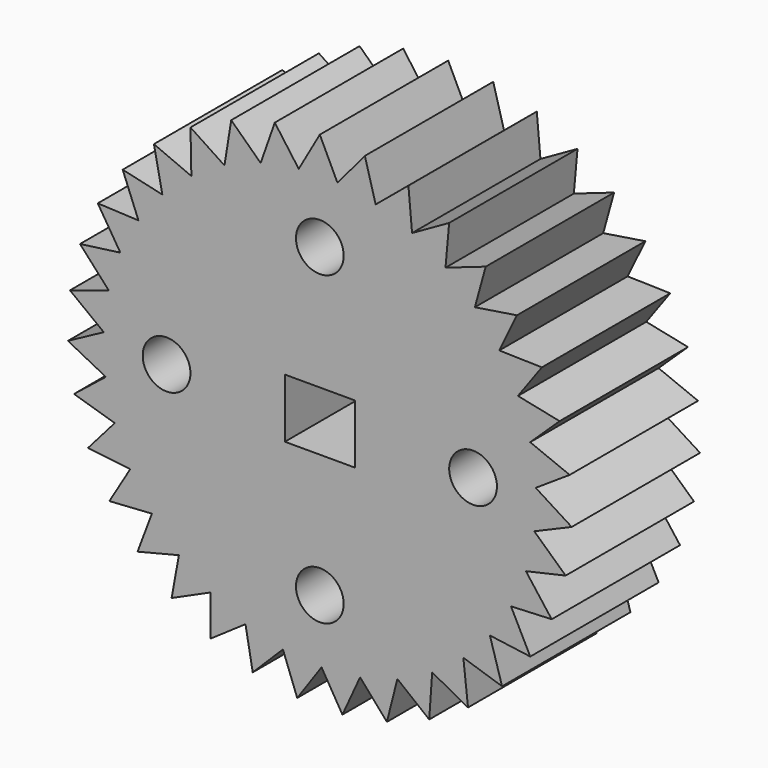
from build123d import *

# Parameters (mm, degrees)
F0_W     = 11.065213941
F0_H     = 9.36287269
F0_R     = 3.7773580785
F1_DEPTH = 25.4


with BuildPart() as f1:
    # F0 (on Front) → F1 (new body)
    with BuildSketch(Plane.XZ):
        with BuildLine():
            ThreePointArc((33.4671847141, 1.342639267), (33.4873749591, 0.6714545692), (33.4941059425, 0))
            ThreePointArc((33.4941059425, 0), (33.4423252841, -1.8617229873), (33.2871434109, -3.7176896637))
            Line((33.2871434109, -3.7176896637), (33.9462126427, -4.3227146645))
            Line((33.9462126427, -4.3227146645), (39.8726638025, -1.7906833961))
            Line((39.8726638025, -1.7906833961), (34.1725335476, 1.8080834581))
            Line((34.1725335476, 1.8080834581), (33.4671847141, 1.342639267))
        make_face()
        with BuildLine():
            ThreePointArc((33.416024444, 2.2857041028), (33.4449287582, 1.8143520181), (33.4671847141, 1.342639267))
            Line((33.4671847141, 1.342639267), (34.1725335476, 1.8080834581))
            Line((34.1725335476, 1.8080834581), (33.416024444, 2.2857041028))
        make_face()
        with BuildLine():
            Line((33.9462126427, -4.3227146645), (33.2871434109, -3.7176896637))
            ThreePointArc((33.2871434109, -3.7176896637), (33.2314200562, -4.1866279911), (33.1690907857, -4.6547340786))
            Line((33.1690907857, -4.6547340786), (33.9462126427, -4.3227146645))
        make_face()
        with BuildLine():
            ThreePointArc((32.689615789, 7.2968590818), (33.1476520467, 4.8050282705), (33.416024444, 2.2857041028))
            Line((33.416024444, 2.2857041028), (34.1725335476, 1.8080834581))
            Line((34.1725335476, 1.8080834581), (39.5516325583, 5.3576326586))
            Line((39.5516325583, 5.3576326586), (33.3005211071, 7.8807682908))
            Line((33.3005211071, 7.8807682908), (32.689615789, 7.2968590818))
        make_face()
        with BuildLine():
            Line((33.9462126427, -4.3227146645), (33.1690907857, -4.6547340786))
            ThreePointArc((33.1690907857, -4.6547340786), (32.7223536892, -7.1486153854), (32.0883861997, -9.6015938255))
            Line((32.0883861997, -9.6015938255), (32.6288325324, -10.3145771812))
            Line((32.6288325324, -10.3145771812), (38.9121548247, -8.8814454132))
            Line((38.9121548247, -8.8814454132), (33.9462126427, -4.3227146645))
        make_face()
        with BuildLine():
            ThreePointArc((32.4708869568, 8.2156334588), (32.5834899314, 7.7570172606), (32.689615789, 7.2968590818))
            Line((32.689615789, 7.2968590818), (33.3005211071, 7.8807682908))
            Line((33.3005211071, 7.8807682908), (32.4708869568, 8.2156334588))
        make_face()
        with BuildLine():
            Line((32.6288325324, -10.3145771812), (32.0883861997, -9.6015938255))
            ThreePointArc((32.0883861997, -9.6015938255), (31.9498261707, -10.0530463319), (31.8049149877, -10.502500441))
            Line((31.8049149877, -10.502500441), (32.6288325324, -10.3145771812))
        make_face()
        with BuildLine():
            ThreePointArc((30.8613757153, 13.0165518419), (31.7569847139, 10.6465513087), (32.4708869568, 8.2156334588))
            Line((32.4708869568, 8.2156334588), (33.3005211071, 7.8807682908))
            Line((33.3005211071, 7.8807682908), (37.9593793005, 12.3337499915))
            Line((37.9593793005, 12.3337499915), (31.3582025184, 13.7001587463))
            Line((31.3582025184, 13.7001587463), (30.8613757153, 13.0165518419))
        make_face()
        with BuildLine():
            Line((32.6288325324, -10.3145771812), (31.8049149877, -10.502500441))
            ThreePointArc((31.8049149877, -10.502500441), (30.9200574381, -12.8765360604), (29.8582818537, -15.1768948615))
            Line((29.8582818537, -15.1768948615), (30.2627348975, -15.9749207003))
            Line((30.2627348975, -15.9749207003), (36.7009771739, -15.686750467))
            Line((36.7009771739, -15.686750467), (32.6288325324, -10.3145771812))
        make_face()
        with BuildLine():
            ThreePointArc((30.4821084456, 13.8815055956), (30.6747909283, 13.4503655858), (30.8613757153, 13.0165518419))
            Line((30.8613757153, 13.0165518419), (31.3582025184, 13.7001587463))
            Line((31.3582025184, 13.7001587463), (30.4821084456, 13.8815055956))
        make_face()
        with BuildLine():
            Line((30.2627348975, -15.9749207003), (29.8582818537, -15.1768948615))
            ThreePointArc((29.8582818537, -15.1768948615), (29.6413385837, -15.5963514919), (29.4185030529, -16.0127077977))
            Line((29.4185030529, -16.0127077977), (30.2627348975, -15.9749207003))
        make_face()
        with BuildLine():
            ThreePointArc((28.0412256332, 18.3178819157), (29.3456217627, 16.1458854279), (30.4821084456, 13.8815055956))
            Line((30.4821084456, 13.8815055956), (31.3582025184, 13.7001587463))
            Line((31.3582025184, 13.7001587463), (35.1470803589, 18.9134504514))
            Line((35.1470803589, 18.9134504514), (28.4080054991, 19.0792148271))
            Line((28.4080054991, 19.0792148271), (28.0412256332, 18.3178819157))
        make_face()
        with BuildLine():
            Line((30.2627348975, -15.9749207003), (29.4185030529, -16.0127077977))
            ThreePointArc((29.4185030529, -16.0127077977), (28.1239650998, -18.1905942716), (26.6685077614, -20.2643980091))
            Line((26.6685077614, -20.2643980091), (26.9239680626, -21.121817124))
            Line((26.9239680626, -21.121817124), (33.310199919, -21.9878704537))
            Line((33.310199919, -21.9878704537), (30.2627348975, -15.9749207003))
        make_face()
        with BuildLine():
            ThreePointArc((27.5136098882, 19.1012147207), (27.7801789056, 18.7114080941), (28.0412256332, 18.3178819157))
            Line((28.0412256332, 18.3178819157), (28.4080054991, 19.0792148271))
            Line((28.4080054991, 19.0792148271), (27.5136098882, 19.1012147207))
        make_face()
        with BuildLine():
            Line((26.9239680626, -21.121817124), (26.6685077614, -20.2643980091))
            ThreePointArc((26.6685077614, -20.2643980091), (26.3801539856, -20.6383770822), (26.0865562244, -21.0082535505))
            Line((26.0865562244, -21.0082535505), (26.9239680626, -21.121817124))
        make_face()
        with BuildLine():
            ThreePointArc((24.3198074869, 23.0304601927), (25.9910663824, 21.1262775045), (27.5136098882, 19.1012147207))
            Line((27.5136098882, 19.1012147207), (28.4080054991, 19.0792148271))
            Line((28.4080054991, 19.0792148271), (31.2051253354, 24.8852570517))
            Line((31.2051253354, 24.8852570517), (24.5447518089, 23.845049245))
            Line((24.5447518089, 23.845049245), (24.3198074869, 23.0304601927))
        make_face()
        with BuildLine():
            Line((26.9239680626, -21.121817124), (26.0865562244, -21.0082535505))
            ThreePointArc((26.0865562244, -21.0082535505), (24.4239453827, -22.9199918157), (22.6215858867, -24.7005867311))
            Line((22.6215858867, -24.7005867311), (22.7198427411, -25.5898409662))
            Line((22.7198427411, -25.5898409662), (28.848805431, -27.5822821923))
            Line((28.848805431, -27.5822821923), (26.9239680626, -21.121817124))
        make_face()
        with BuildLine():
            ThreePointArc((23.6608012708, 23.7069950882), (23.9926890752, 23.3710505505), (24.3198074869, 23.0304601927))
            Line((24.3198074869, 23.0304601927), (24.5447518089, 23.845049245))
            Line((24.5447518089, 23.845049245), (23.6608012708, 23.7069950882))
        make_face()
        with BuildLine():
            Line((22.7198427411, -25.5898409662), (22.6215858867, -24.7005867311))
            ThreePointArc((22.6215858867, -24.7005867311), (22.2710895327, -25.0170682518), (21.9161660147, -25.3285767485))
            Line((21.9161660147, -25.3285767485), (22.7198427411, -25.5898409662))
        make_face()
        with BuildLine():
            ThreePointArc((19.8167307176, 27.0028205296), (21.801136743, 25.4276536394), (23.6608012708, 23.7069950882))
            Line((23.6608012708, 23.7069950882), (24.5447518089, 23.845049245))
            Line((24.5447518089, 23.845049245), (26.260211908, 30.0572310148))
            Line((26.260211908, 30.0572310148), (19.8926096001, 27.8444841603))
            Line((19.8926096001, 27.8444841603), (19.8167307176, 27.0028205296))
        make_face()
        with BuildLine():
            Line((22.7198427411, -25.5898409662), (21.9161660147, -25.3285767485))
            ThreePointArc((21.9161660147, -25.3285767485), (19.938919965, -26.9127219642), (17.8475876286, -28.3428782718))
            Line((17.8475876286, -28.3428782718), (17.78548298, -29.2353862643))
            Line((17.78548298, -29.2353862643), (23.4601865995, -32.2901766865))
            Line((23.4601865995, -32.2901766865), (22.7198427411, -25.5898409662))
        make_face()
        with BuildLine():
            ThreePointArc((19.0475150323, 27.5508131274), (19.4340544766, 27.2795282124), (19.8167307176, 27.0028205296))
            Line((19.8167307176, 27.0028205296), (19.8926096001, 27.8444841603))
            Line((19.8926096001, 27.8444841603), (19.0475150323, 27.5508131274))
        make_face()
        with BuildLine():
            Line((17.78548298, -29.2353862643), (17.8475876286, -28.3428782718))
            ThreePointArc((17.8475876286, -28.3428782718), (17.4462139375, -28.5916902637), (17.0413721966, -28.8348186494))
            Line((17.0413721966, -28.8348186494), (17.78548298, -29.2353862643))
        make_face()
        with BuildLine():
            ThreePointArc((14.6767279178, 30.1072879967), (16.9105006306, 28.9117640643), (19.0475150323, 27.5508131274))
            Line((19.0475150323, 27.5508131274), (19.8926096001, 27.8444841603))
            Line((19.8926096001, 27.8444841603), (20.4712736629, 34.2631408418))
            Line((20.4712736629, 34.2631408418), (14.6011025511, 30.9489744442))
            Line((14.6011025511, 30.9489744442), (14.6767279178, 30.1072879967))
        make_face()
        with BuildLine():
            Line((17.78548298, -29.2353862643), (17.0413721966, -28.8348186494))
            ThreePointArc((17.0413721966, -28.8348186494), (14.8130412537, -30.0404550849), (12.499953219, -31.0742063843))
            Line((12.499953219, -31.0742063843), (12.2794831619, -31.941282193))
            Line((12.2794831619, -31.941282193), (17.3175380677, -35.9602383335))
            Line((17.3175380677, -35.9602383335), (17.78548298, -29.2353862643))
        make_face()
        with BuildLine():
            ThreePointArc((13.8220259884, 30.5091253638), (14.2507933768, 30.3112193919), (14.6767279178, 30.1072879967))
            Line((14.6767279178, 30.1072879967), (14.6011025511, 30.9489744442))
            Line((14.6011025511, 30.9489744442), (13.8220259884, 30.5091253638))
        make_face()
        with BuildLine():
            Line((12.2794831619, -31.941282193), (12.499953219, -31.0742063843))
            ThreePointArc((12.499953219, -31.0742063843), (12.0606026716, -31.2473518252), (11.6188546545, -31.4142857536))
            Line((11.6188546545, -31.4142857536), (12.2794831619, -31.941282193))
        make_face()
        with BuildLine():
            ThreePointArc((9.0650030066, 32.2440824552), (11.476347114, 31.4666266036), (13.8220259884, 30.5091253638))
            Line((13.8220259884, 30.5091253638), (14.6011025511, 30.9489744442))
            Line((14.6011025511, 30.9489744442), (14.0243718385, 37.3678051304))
            Line((14.0243718385, 37.3678051304), (8.8403040522, 33.0587392246))
            Line((8.8403040522, 33.0587392246), (9.0650030066, 32.2440824552))
        make_face()
        with BuildLine():
            Line((12.2794831619, -31.941282193), (11.6188546545, -31.4142857536))
            ThreePointArc((11.6188546545, -31.4142857536), (9.2110592084, -32.2026632618), (6.7505600279, -32.8067839356))
            Line((6.7505600279, -32.8067839356), (6.3788106515, -33.6205590306))
            Line((6.3788106515, -33.6205590306), (10.6182896134, -38.4745083323))
            Line((10.6182896134, -38.4745083323), (12.2794831619, -31.941282193))
        make_face()
        with BuildLine():
            ThreePointArc((8.1522856563, 32.4868492081), (8.6095000523, 32.3686830399), (9.0650030066, 32.2440824552))
            Line((9.0650030066, 32.2440824552), (8.8403040522, 33.0587392246))
            Line((8.8403040522, 33.0587392246), (8.1522856563, 32.4868492081))
        make_face()
        with BuildLine():
            Line((6.3788106515, -33.6205590306), (6.7505600279, -32.8067839356))
            ThreePointArc((6.7505600279, -32.8067839356), (6.2873537124, -32.8986977886), (5.8228975637, -32.9840718659))
            Line((5.8228975637, -32.9840718659), (6.3788106515, -33.6205590306))
        make_face()
        with BuildLine():
            ThreePointArc((3.1619214401, 33.3445255731), (5.6733343584, 33.0101258729), (8.1522856563, 32.4868492081))
            Line((8.1522856563, 32.4868492081), (8.8403040522, 33.0587392246))
            Line((8.8403040522, 33.0587392246), (7.1267151639, 39.2714374158))
            Line((7.1267151639, 39.2714374158), (2.7953709073, 34.1059689255))
            Line((2.7953709073, 34.1059689255), (3.1619214401, 33.3445255731))
        make_face()
        with BuildLine():
            Line((6.3788106515, -33.6205590306), (5.8228975637, -32.9840718659))
            ThreePointArc((5.8228975637, -32.9840718659), (3.3130261412, -33.329851345), (0.7841982832, -33.4849244578))
            Line((0.7841982832, -33.4849244578), (0.2731179182, -34.2192434379))
            Line((0.2731179182, -34.2192434379), (3.5777605942, -39.7521759764))
            Line((3.5777605942, -39.7521759764), (6.3788106515, -33.6205590306))
        make_face()
        with BuildLine():
            ThreePointArc((2.2205241556, 33.4204189885), (2.6914903121, 33.3857905821), (3.1619214401, 33.3445255731))
            Line((3.1619214401, 33.3445255731), (2.7953709073, 34.1059689255))
            Line((2.7953709073, 34.1059689255), (2.2205241556, 33.4204189885))
        make_face()
        with BuildLine():
            Line((0.2731179182, -34.2192434379), (0.7841982832, -33.4849244578))
            ThreePointArc((0.7841982832, -33.4849244578), (0.3120240315, -33.4926525359), (-0.1602122459, -33.493722769))
            Line((-0.1602122459, -33.493722769), (0.2731179182, -34.2192434379))
        make_face()
        with BuildLine():
            ThreePointArc((-2.8427868831, 33.3732482031), (-0.3120240315, 33.4926525359), (2.2205241556, 33.4204189885))
            Line((2.2205241556, 33.4204189885), (2.7953709073, 34.1059689255))
            Line((2.7953709073, 34.1059689255), (0, 39.91285339))
            Line((0, 39.91285339), (-3.3394077587, 34.0570047226))
            Line((-3.3394077587, 34.0570047226), (-2.8427868831, 33.3732482031))
        make_face()
        with BuildLine():
            Line((0.2731179182, -34.2192434379), (-0.1602122459, -33.493722769))
            ThreePointArc((-0.1602122459, -33.493722769), (-2.6914903121, -33.3857905821), (-5.2073682396, -33.0868319563))
            Line((-5.2073682396, -33.0868319563), (-5.8413530498, -33.7180932053))
            Line((-5.8413530498, -33.7180932053), (-3.5777605942, -39.7521759764))
            Line((-3.5777605942, -39.7521759764), (0.2731179182, -34.2192434379))
        make_face()
        with BuildLine():
            ThreePointArc((-3.7826068186, 33.2798290042), (-3.3130261412, 33.329851345), (-2.8427868831, 33.3732482031))
            Line((-2.8427868831, 33.3732482031), (-3.3394077587, 34.0570047226))
            Line((-3.3394077587, 34.0570047226), (-3.7826068186, 33.2798290042))
        make_face()
        with BuildLine():
            Line((-5.8413530498, -33.7180932053), (-5.2073682396, -33.0868319563))
            ThreePointArc((-5.2073682396, -33.0868319563), (-5.6733343584, -33.0101258729), (-6.1381727021, -32.9268578636))
            Line((-6.1381727021, -32.9268578636), (-5.8413530498, -33.7180932053))
        make_face()
        with BuildLine():
            ThreePointArc((-8.7561256969, 32.3293271763), (-6.2873537124, 32.8986977886), (-3.7826068186, 33.2798290042))
            Line((-3.7826068186, 33.2798290042), (-3.3394077587, 34.0570047226))
            Line((-3.3394077587, 34.0570047226), (-7.1267151639, 39.2714374158))
            Line((-7.1267151639, 39.2714374158), (-9.3668551116, 32.9134203658))
            Line((-9.3668551116, 32.9134203658), (-8.7561256969, 32.3293271763))
        make_face()
        with BuildLine():
            Line((-5.8413530498, -33.7180932053), (-6.1381727021, -32.9268578636))
            ThreePointArc((-6.1381727021, -32.9268578636), (-8.6095000523, -32.3686830399), (-11.0315656625, -31.6253014519))
            Line((-11.0315656625, -31.6253014519), (-11.7680781244, -32.1332157139))
            Line((-11.7680781244, -32.1332157139), (-10.6182896134, -38.4745083323))
            Line((-10.6182896134, -38.4745083323), (-5.8413530498, -33.7180932053))
        make_face()
        with BuildLine():
            ThreePointArc((-9.6641616972, 32.0695979329), (-9.2110592084, 32.2026632618), (-8.7561256969, 32.3293271763))
            Line((-8.7561256969, 32.3293271763), (-9.3668551116, 32.9134203658))
            Line((-9.3668551116, 32.9134203658), (-9.6641616972, 32.0695979329))
        make_face()
        with BuildLine():
            Line((-11.7680781244, -32.1332157139), (-11.0315656625, -31.6253014519))
            ThreePointArc((-11.0315656625, -31.6253014519), (-11.476347114, -31.4666266036), (-11.9188472371, -31.3016966542))
            Line((-11.9188472371, -31.3016966542), (-11.7680781244, -32.1332157139))
        make_face()
        with BuildLine():
            ThreePointArc((-14.3880354262, 30.2463149733), (-12.0606026716, 31.2473518252), (-9.6641616972, 32.0695979329))
            Line((-9.6641616972, 32.0695979329), (-9.3668551116, 32.9134203658))
            Line((-9.3668551116, 32.9134203658), (-14.0243718385, 37.3678051304))
            Line((-14.0243718385, 37.3678051304), (-15.0932440341, 30.7119715971))
            Line((-15.0932440341, 30.7119715971), (-14.3880354262, 30.2463149733))
        make_face()
        with BuildLine():
            Line((-11.7680781244, -32.1332157139), (-11.9188472371, -31.3016966542))
            ThreePointArc((-11.9188472371, -31.3016966542), (-14.2507933768, -30.3112193919), (-16.5011994882, -29.1473077374))
            Line((-16.5011994882, -29.1473077374), (-17.3165674853, -29.5155502301))
            Line((-17.3165674853, -29.5155502301), (-17.3175380677, -35.9602383335))
            Line((-17.3175380677, -35.9602383335), (-11.7680781244, -32.1332157139))
        make_face()
        with BuildLine():
            ThreePointArc((-15.2351024672, 29.8286235972), (-14.8130412537, 30.0404550849), (-14.3880354262, 30.2463149733))
            Line((-14.3880354262, 30.2463149733), (-15.0932440341, 30.7119715971))
            Line((-15.0932440341, 30.7119715971), (-15.2351024672, 29.8286235972))
        make_face()
        with BuildLine():
            Line((-17.3165674853, -29.5155502301), (-16.5011994882, -29.1473077374))
            ThreePointArc((-16.5011994882, -29.1473077374), (-16.9105006306, -28.9117640643), (-17.3164402151, -28.6704731591))
            Line((-17.3164402151, -28.6704731591), (-17.3165674853, -29.5155502301))
        make_face()
        with BuildLine():
            ThreePointArc((-19.5575018583, 27.1911613204), (-17.4462139375, 28.5916902637), (-15.2351024672, 29.8286235972))
            Line((-15.2351024672, 29.8286235972), (-15.0932440341, 30.7119715971))
            Line((-15.0932440341, 30.7119715971), (-20.4712736629, 34.2631408418))
            Line((-20.4712736629, 34.2631408418), (-20.3345236746, 27.5234147915))
            Line((-20.3345236746, 27.5234147915), (-19.5575018583, 27.1911613204))
        make_face()
        with BuildLine():
            Line((-17.3165674853, -29.5155502301), (-17.3164402151, -28.6704731591))
            ThreePointArc((-17.3164402151, -28.6704731591), (-19.4340544766, -27.2795282124), (-21.4404711852, -25.7324955698))
            Line((-21.4404711852, -25.7324955698), (-22.3084881191, -25.9492306764))
            Line((-22.3084881191, -25.9492306764), (-23.4601865995, -32.2901766865))
            Line((-23.4601865995, -32.2901766865), (-17.3165674853, -29.5155502301))
        make_face()
        with BuildLine():
            ThreePointArc((-20.3163745085, 26.6289327559), (-19.938919965, 26.9127219642), (-19.5575018583, 27.1911613204))
            Line((-19.5575018583, 27.1911613204), (-20.3345236746, 27.5234147915))
            Line((-20.3345236746, 27.5234147915), (-20.3163745085, 26.6289327559))
        make_face()
        with BuildLine():
            Line((-22.3084881191, -25.9492306764), (-21.4404711852, -25.7324955698))
            ThreePointArc((-21.4404711852, -25.7324955698), (-21.801136743, -25.4276536394), (-22.1574685565, -25.1177570666))
            Line((-22.1574685565, -25.1177570666), (-22.3084881191, -25.9492306764))
        make_face()
        with BuildLine():
            ThreePointArc((-24.0983740888, 23.2620613696), (-22.2710895327, 25.0170682518), (-20.3163745085, 26.6289327559))
            Line((-20.3163745085, 26.6289327559), (-20.3345236746, 27.5234147915))
            Line((-20.3345236746, 27.5234147915), (-26.260211908, 30.0572310148))
            Line((-26.260211908, 30.0572310148), (-24.922234993, 23.450232788))
            Line((-24.922234993, 23.450232788), (-24.0983740888, 23.2620613696))
        make_face()
        with BuildLine():
            Line((-22.3084881191, -25.9492306764), (-22.1574685565, -25.1177570666))
            ThreePointArc((-22.1574685565, -25.1177570666), (-23.9926890752, -23.3710505505), (-25.6906284969, -21.4906198217))
            Line((-25.6906284969, -21.4906198217), (-26.5833955893, -21.5488814977))
            Line((-26.5833955893, -21.5488814977), (-28.848805431, -27.5822821923))
            Line((-28.848805431, -27.5822821923), (-22.3084881191, -25.9492306764))
        make_face()
        with BuildLine():
            ThreePointArc((-24.7446615567, 22.5733661056), (-24.4239453827, 22.9199918157), (-24.0983740888, 23.2620613696))
            Line((-24.0983740888, 23.2620613696), (-24.922234993, 23.450232788))
            Line((-24.922234993, 23.450232788), (-24.7446615567, 22.5733661056))
        make_face()
        with BuildLine():
            Line((-26.5833955893, -21.5488814977), (-25.6906284969, -21.4906198217))
            ThreePointArc((-25.6906284969, -21.4906198217), (-25.9910663824, -21.1262775045), (-26.2863376273, -20.757735595))
            Line((-26.2863376273, -20.757735595), (-26.5833955893, -21.5488814977))
        make_face()
        with BuildLine():
            ThreePointArc((-27.8647047479, 18.5852996264), (-26.3801539856, 20.6383770822), (-24.7446615567, 22.5733661056))
            Line((-24.7446615567, 22.5733661056), (-24.922234993, 23.450232788))
            Line((-24.922234993, 23.450232788), (-31.2051253354, 24.8852570517))
            Line((-31.2051253354, 24.8852570517), (-28.7089251725, 18.6233410079))
            Line((-28.7089251725, 18.6233410079), (-27.8647047479, 18.5852996264))
        make_face()
        with BuildLine():
            Line((-26.5833955893, -21.5488814977), (-26.2863376273, -20.757735595))
            ThreePointArc((-26.2863376273, -20.757735595), (-27.7801789056, -18.7114080941), (-29.1150678705, -16.5580178701))
            Line((-29.1150678705, -16.5580178701), (-30.0038908523, -16.4559335371))
            Line((-30.0038908523, -16.4559335371), (-33.310199919, -21.9878704537))
            Line((-33.310199919, -21.9878704537), (-26.5833955893, -21.5488814977))
        make_face()
        with BuildLine():
            ThreePointArc((-28.3776348224, 17.7922728951), (-28.1239650998, 18.1905942716), (-27.8647047479, 18.5852996264))
            Line((-27.8647047479, 18.5852996264), (-28.7089251725, 18.6233410079))
            Line((-28.7089251725, 18.6233410079), (-28.3776348224, 17.7922728951))
        make_face()
        with BuildLine():
            Line((-30.0038908523, -16.4559335371), (-29.1150678705, -16.5580178701))
            ThreePointArc((-29.1150678705, -16.5580178701), (-29.3456217627, -16.1458854279), (-29.5703421783, -15.7305434219))
            Line((-29.5703421783, -15.7305434219), (-30.0038908523, -16.4559335371))
        make_face()
        with BuildLine():
            ThreePointArc((-30.7354408692, 13.3111910611), (-29.6413385837, 15.5963514919), (-28.3776348224, 17.7922728951))
            Line((-28.3776348224, 17.7922728951), (-28.7089251725, 18.6233410079))
            Line((-28.7089251725, 18.6233410079), (-35.1470803589, 18.9134504514))
            Line((-35.1470803589, 18.9134504514), (-31.5728868752, 13.1978797244))
            Line((-31.5728868752, 13.1978797244), (-30.7354408692, 13.3111910611))
        make_face()
        with BuildLine():
            Line((-30.0038908523, -16.4559335371), (-29.5703421783, -15.7305434219))
            ThreePointArc((-29.5703421783, -15.7305434219), (-30.6747909283, -13.4503655858), (-31.6037250067, -11.0932276001))
            Line((-31.6037250067, -11.0932276001), (-32.4600363761, -10.8340783327))
            Line((-32.4600363761, -10.8340783327), (-36.7009771739, -15.686750467))
            Line((-36.7009771739, -15.686750467), (-30.0038908523, -16.4559335371))
        make_face()
        with BuildLine():
            ThreePointArc((-31.0985275558, 12.4393213943), (-30.9200574381, 12.8765360604), (-30.7354408692, 13.3111910611))
            Line((-30.7354408692, 13.3111910611), (-31.5728868752, 13.1978797244))
            Line((-31.5728868752, 13.1978797244), (-31.0985275558, 12.4393213943))
        make_face()
        with BuildLine():
            Line((-32.4600363761, -10.8340783327), (-31.6037250067, -11.0932276001))
            ThreePointArc((-31.6037250067, -11.0932276001), (-31.7569847139, -10.6465513087), (-31.9039316011, -10.19775864))
            Line((-31.9039316011, -10.19775864), (-32.4600363761, -10.8340783327))
        make_face()
        with BuildLine():
            ThreePointArc((-32.6183146318, 7.6092498626), (-31.9498261707, 10.0530463319), (-31.0985275558, 12.4393213943))
            Line((-31.0985275558, 12.4393213943), (-31.5728868752, 13.1978797244))
            Line((-31.5728868752, 13.1978797244), (-37.9593793005, 12.3337499915))
            Line((-37.9593793005, 12.3337499915), (-33.4220700155, 7.3482277273))
            Line((-33.4220700155, 7.3482277273), (-32.6183146318, 7.6092498626))
        make_face()
        with BuildLine():
            Line((-32.4600363761, -10.8340783327), (-31.9039316011, -10.19775864))
            ThreePointArc((-31.9039316011, -10.19775864), (-32.5834899314, -7.7570172606), (-33.0766124176, -5.2718918676))
            Line((-33.0766124176, -5.2718918676), (-33.8728896225, -4.8640069364))
            Line((-33.8728896225, -4.8640069364), (-38.9121548247, -8.8814454132))
            Line((-38.9121548247, -8.8814454132), (-32.4600363761, -10.8340783327))
        make_face()
        with BuildLine():
            ThreePointArc((-32.8198880256, 6.6865598688), (-32.7223536892, 7.1486153854), (-32.6183146318, 7.6092498626))
            Line((-32.6183146318, 7.6092498626), (-33.4220700155, 7.3482277273))
            Line((-33.4220700155, 7.3482277273), (-32.8198880256, 6.6865598688))
        make_face()
        with BuildLine():
            Line((-33.8728896225, -4.8640069364), (-33.0766124176, -5.2718918676))
            ThreePointArc((-33.0766124176, -5.2718918676), (-33.1476520467, -4.8050282705), (-33.2121024116, -4.3372095048))
            Line((-33.2121024116, -4.3372095048), (-33.8728896225, -4.8640069364))
        make_face()
        with BuildLine():
            ThreePointArc((-33.4528089237, 1.6627411127), (-33.2314200562, 4.1866279911), (-32.8198880256, 6.6865598688))
            Line((-32.8198880256, 6.6865598688), (-33.4220700155, 7.3482277273))
            Line((-33.4220700155, 7.3482277273), (-39.5516325583, 5.3576326586))
            Line((-39.5516325583, 5.3576326586), (-34.1970403258, 1.262397645))
            Line((-34.1970403258, 1.262397645), (-33.4528089237, 1.6627411127))
        make_face()
        with BuildLine():
            Line((-33.8728896225, -4.8640069364), (-33.2121024116, -4.3372095048))
            ThreePointArc((-33.2121024116, -4.3372095048), (-33.4449287582, -1.8143520181), (-33.4863902899, 0.7188868074))
            Line((-33.4863902899, 0.7188868074), (-34.1970403258, 1.262397645))
            Line((-34.1970403258, 1.262397645), (-39.8726638025, -1.7906833961))
            Line((-39.8726638025, -1.7906833961), (-33.8728896225, -4.8640069364))
        make_face()
        with BuildLine():
            ThreePointArc((-33.4863902899, 0.7188868074), (-33.4729265687, 1.1909323299), (-33.4528089237, 1.6627411127))
            Line((-33.4528089237, 1.6627411127), (-34.1970403258, 1.262397645))
            Line((-34.1970403258, 1.262397645), (-33.4863902899, 0.7188868074))
        make_face()
        with BuildLine():
            ThreePointArc((33.2871434109, -3.7176896637), (33.4423252841, -1.8617229873), (33.4941059425, 0))
            ThreePointArc((33.4941059425, 0), (33.4873749591, 0.6714545692), (33.4671847141, 1.342639267))
            ThreePointArc((33.4671847141, 1.342639267), (33.4449287582, 1.8143520181), (33.416024444, 2.2857041028))
            ThreePointArc((33.416024444, 2.2857041028), (33.1476520467, 4.8050282705), (32.689615789, 7.2968590818))
            ThreePointArc((32.689615789, 7.2968590818), (32.5834899314, 7.7570172606), (32.4708869568, 8.2156334588))
            ThreePointArc((32.4708869568, 8.2156334588), (31.7569847139, 10.6465513087), (30.8613757153, 13.0165518419))
            ThreePointArc((30.8613757153, 13.0165518419), (30.6747909283, 13.4503655858), (30.4821084456, 13.8815055956))
            ThreePointArc((30.4821084456, 13.8815055956), (29.3456217627, 16.1458854279), (28.0412256332, 18.3178819157))
            ThreePointArc((28.0412256332, 18.3178819157), (27.7801789056, 18.7114080941), (27.5136098882, 19.1012147207))
            ThreePointArc((27.5136098882, 19.1012147207), (25.9910663824, 21.1262775045), (24.3198074869, 23.0304601927))
            ThreePointArc((24.3198074869, 23.0304601927), (23.9926890752, 23.3710505505), (23.6608012708, 23.7069950882))
            ThreePointArc((23.6608012708, 23.7069950882), (21.801136743, 25.4276536394), (19.8167307176, 27.0028205296))
            ThreePointArc((19.8167307176, 27.0028205296), (19.4340544766, 27.2795282124), (19.0475150323, 27.5508131274))
            ThreePointArc((19.0475150323, 27.5508131274), (16.9105006306, 28.9117640643), (14.6767279178, 30.1072879967))
            ThreePointArc((14.6767279178, 30.1072879967), (14.2507933768, 30.3112193919), (13.8220259884, 30.5091253638))
            ThreePointArc((13.8220259884, 30.5091253638), (11.476347114, 31.4666266036), (9.0650030066, 32.2440824552))
            ThreePointArc((9.0650030066, 32.2440824552), (8.6095000523, 32.3686830399), (8.1522856563, 32.4868492081))
            ThreePointArc((8.1522856563, 32.4868492081), (5.6733343584, 33.0101258729), (3.1619214401, 33.3445255731))
            ThreePointArc((3.1619214401, 33.3445255731), (2.6914903121, 33.3857905821), (2.2205241556, 33.4204189885))
            ThreePointArc((2.2205241556, 33.4204189885), (-0.3120240315, 33.4926525359), (-2.8427868831, 33.3732482031))
            ThreePointArc((-2.8427868831, 33.3732482031), (-3.3130261412, 33.329851345), (-3.7826068186, 33.2798290042))
            ThreePointArc((-3.7826068186, 33.2798290042), (-6.2873537124, 32.8986977886), (-8.7561256969, 32.3293271763))
            ThreePointArc((-8.7561256969, 32.3293271763), (-9.2110592084, 32.2026632618), (-9.6641616972, 32.0695979329))
            ThreePointArc((-9.6641616972, 32.0695979329), (-12.0606026716, 31.2473518252), (-14.3880354262, 30.2463149733))
            ThreePointArc((-14.3880354262, 30.2463149733), (-14.8130412537, 30.0404550849), (-15.2351024672, 29.8286235972))
            ThreePointArc((-15.2351024672, 29.8286235972), (-17.4462139375, 28.5916902637), (-19.5575018583, 27.1911613204))
            ThreePointArc((-19.5575018583, 27.1911613204), (-19.938919965, 26.9127219642), (-20.3163745085, 26.6289327559))
            ThreePointArc((-20.3163745085, 26.6289327559), (-22.2710895327, 25.0170682518), (-24.0983740888, 23.2620613696))
            ThreePointArc((-24.0983740888, 23.2620613696), (-24.4239453827, 22.9199918157), (-24.7446615567, 22.5733661056))
            ThreePointArc((-24.7446615567, 22.5733661056), (-26.3801539856, 20.6383770822), (-27.8647047479, 18.5852996264))
            ThreePointArc((-27.8647047479, 18.5852996264), (-28.1239650998, 18.1905942716), (-28.3776348224, 17.7922728951))
            ThreePointArc((-28.3776348224, 17.7922728951), (-29.6413385837, 15.5963514919), (-30.7354408692, 13.3111910611))
            ThreePointArc((-30.7354408692, 13.3111910611), (-30.9200574381, 12.8765360604), (-31.0985275558, 12.4393213943))
            ThreePointArc((-31.0985275558, 12.4393213943), (-31.9498261707, 10.0530463319), (-32.6183146318, 7.6092498626))
            ThreePointArc((-32.6183146318, 7.6092498626), (-32.7223536892, 7.1486153854), (-32.8198880256, 6.6865598688))
            ThreePointArc((-32.8198880256, 6.6865598688), (-33.2314200562, 4.1866279911), (-33.4528089237, 1.6627411127))
            ThreePointArc((-33.4528089237, 1.6627411127), (-33.4729265687, 1.1909323299), (-33.4863902899, 0.7188868074))
            ThreePointArc((-33.4863902899, 0.7188868074), (-33.4449287582, -1.8143520181), (-33.2121024116, -4.3372095048))
            ThreePointArc((-33.2121024116, -4.3372095048), (-33.1476520467, -4.8050282705), (-33.0766124176, -5.2718918676))
            ThreePointArc((-33.0766124176, -5.2718918676), (-32.5834899314, -7.7570172606), (-31.9039316011, -10.19775864))
            ThreePointArc((-31.9039316011, -10.19775864), (-31.7569847139, -10.6465513087), (-31.6037250067, -11.0932276001))
            ThreePointArc((-31.6037250067, -11.0932276001), (-30.6747909283, -13.4503655858), (-29.5703421783, -15.7305434219))
            ThreePointArc((-29.5703421783, -15.7305434219), (-29.3456217627, -16.1458854279), (-29.1150678705, -16.5580178701))
            ThreePointArc((-29.1150678705, -16.5580178701), (-27.7801789056, -18.7114080941), (-26.2863376273, -20.757735595))
            ThreePointArc((-26.2863376273, -20.757735595), (-25.9910663824, -21.1262775045), (-25.6906284969, -21.4906198217))
            ThreePointArc((-25.6906284969, -21.4906198217), (-23.9926890752, -23.3710505505), (-22.1574685565, -25.1177570666))
            ThreePointArc((-22.1574685565, -25.1177570666), (-21.801136743, -25.4276536394), (-21.4404711852, -25.7324955698))
            ThreePointArc((-21.4404711852, -25.7324955698), (-19.4340544766, -27.2795282124), (-17.3164402151, -28.6704731591))
            ThreePointArc((-17.3164402151, -28.6704731591), (-16.9105006306, -28.9117640643), (-16.5011994882, -29.1473077374))
            ThreePointArc((-16.5011994882, -29.1473077374), (-14.2507933768, -30.3112193919), (-11.9188472371, -31.3016966542))
            ThreePointArc((-11.9188472371, -31.3016966542), (-11.476347114, -31.4666266036), (-11.0315656625, -31.6253014519))
            ThreePointArc((-11.0315656625, -31.6253014519), (-8.6095000523, -32.3686830399), (-6.1381727021, -32.9268578636))
            ThreePointArc((-6.1381727021, -32.9268578636), (-5.6733343584, -33.0101258729), (-5.2073682396, -33.0868319563))
            ThreePointArc((-5.2073682396, -33.0868319563), (-2.6914903121, -33.3857905821), (-0.1602122459, -33.493722769))
            ThreePointArc((-0.1602122459, -33.493722769), (0.3120240315, -33.4926525359), (0.7841982832, -33.4849244578))
            ThreePointArc((0.7841982832, -33.4849244578), (3.3130261412, -33.329851345), (5.8228975637, -32.9840718659))
            ThreePointArc((5.8228975637, -32.9840718659), (6.2873537124, -32.8986977886), (6.7505600279, -32.8067839356))
            ThreePointArc((6.7505600279, -32.8067839356), (9.2110592084, -32.2026632618), (11.6188546545, -31.4142857536))
            ThreePointArc((11.6188546545, -31.4142857536), (12.0606026716, -31.2473518252), (12.499953219, -31.0742063843))
            ThreePointArc((12.499953219, -31.0742063843), (14.8130412537, -30.0404550849), (17.0413721966, -28.8348186494))
            ThreePointArc((17.0413721966, -28.8348186494), (17.4462139375, -28.5916902637), (17.8475876286, -28.3428782718))
            ThreePointArc((17.8475876286, -28.3428782718), (19.938919965, -26.9127219642), (21.9161660147, -25.3285767485))
            ThreePointArc((21.9161660147, -25.3285767485), (22.2710895327, -25.0170682518), (22.6215858867, -24.7005867311))
            ThreePointArc((22.6215858867, -24.7005867311), (24.4239453827, -22.9199918157), (26.0865562244, -21.0082535505))
            ThreePointArc((26.0865562244, -21.0082535505), (26.3801539856, -20.6383770822), (26.6685077614, -20.2643980091))
            ThreePointArc((26.6685077614, -20.2643980091), (28.1239650998, -18.1905942716), (29.4185030529, -16.0127077977))
            ThreePointArc((29.4185030529, -16.0127077977), (29.6413385837, -15.5963514919), (29.8582818537, -15.1768948615))
            ThreePointArc((29.8582818537, -15.1768948615), (30.9200574381, -12.8765360604), (31.8049149877, -10.502500441))
            ThreePointArc((31.8049149877, -10.502500441), (31.9498261707, -10.0530463319), (32.0883861997, -9.6015938255))
            ThreePointArc((32.0883861997, -9.6015938255), (32.7223536892, -7.1486153854), (33.1690907857, -4.6547340786))
            ThreePointArc((33.1690907857, -4.6547340786), (33.2314200562, -4.1866279911), (33.2871434109, -3.7176896637))
        make_face()
        with BuildLine():
            Line((2.9790969566, 8.6535634473), (9.2210108414, 8.6535634473))
            Line((9.2210108414, 8.6535634473), (9.2210108414, 2.9790960252))
            Line((9.2210108414, 2.9790960252), (16.8815422803, 2.9790960252))
            ThreePointArc((16.8815422803, 2.9790960252), (24.9210830941, 6.9998026802), (30.5605027825, -4.657e-07))
            ThreePointArc((30.5605027825, -4.657e-07), (24.9210830941, -6.9998036115), (16.8815422803, -2.9790969566))
            Line((16.8815422803, -2.9790969566), (9.2210108414, -2.9790969566))
            Line((9.2210108414, -2.9790969566), (9.2210108414, -8.6535634473))
            Line((9.2210108414, -8.6535634473), (2.9790960252, -8.6535634473))
            Line((2.9790960252, -8.6535634473), (2.9790960252, -16.8815422803))
            ThreePointArc((2.9790960252, -16.8815422803), (6.0275669555, -19.5249695232), (7.163883672, -23.3966186448))
            ThreePointArc((7.163883672, -23.3966186448), (-3.8716495873, -29.424186066), (-2.9790969566, -16.8815422803))
            Line((-2.9790969566, -16.8815422803), (-2.9790969566, -8.6535634473))
            Line((-2.9790969566, -8.6535634473), (-9.2210108414, -8.6535634473))
            Line((-9.2210108414, -8.6535634473), (-9.2210108414, -2.9790960252))
            Line((-9.2210108414, -2.9790960252), (-16.8815422803, -2.9790960252))
            ThreePointArc((-16.8815422803, -2.9790960252), (-30.5605027825, 4.657e-07), (-16.8815422803, 2.9790969566))
            Line((-16.8815422803, 2.9790969566), (-9.2210108414, 2.9790969566))
            Line((-9.2210108414, 2.9790969566), (-9.2210108414, 8.6535634473))
            Line((-9.2210108414, 8.6535634473), (-2.9790960252, 8.6535634473))
            Line((-2.9790960252, 8.6535634473), (-2.9790960252, 16.8815422803))
            ThreePointArc((-2.9790960252, 16.8815422803), (-3.871648656, 29.424186066), (7.1638846033, 23.3966186448))
            ThreePointArc((7.1638846033, 23.3966186448), (6.0275678868, 19.5249695232), (2.9790969566, 16.8815422803))
            Line((2.9790969566, 16.8815422803), (2.9790969566, 8.6535634473))
        make_face(mode=Mode.SUBTRACT)
        Polygon((9.2210108414, 2.9790960252), (9.2210108414, 8.6535634473), (2.9790969566, 8.6535634473), (-2.9790960252, 8.6535634473), (-9.2210108414, 8.6535634473), (-9.2210108414, 2.9790969566), (-9.2210108414, -2.9790960252), (-9.2210108414, -8.6535634473), (-2.9790969566, -8.6535634473), (2.9790960252, -8.6535634473), (9.2210108414, -8.6535634473), (9.2210108414, -2.9790969566), align=None)
        Rectangle(F0_W, F0_H, mode=Mode.SUBTRACT)
        with BuildLine():
            Line((-9.2210108414, -2.9790960252), (-9.2210108414, 2.9790969566))
            Line((-9.2210108414, 2.9790969566), (-16.8815422803, 2.9790969566))
            ThreePointArc((-16.8815422803, 2.9790969566), (-16.396815499, 1.5244649149), (-16.2327345072, 4.657e-07))
            ThreePointArc((-16.2327345072, 4.657e-07), (-16.396815499, -1.5244639836), (-16.8815422803, -2.9790960252))
            Line((-16.8815422803, -2.9790960252), (-9.2210108414, -2.9790960252))
        make_face()
        with BuildLine():
            ThreePointArc((-16.2327345072, 4.657e-07), (-16.396815499, 1.5244649149), (-16.8815422803, 2.9790969566))
            ThreePointArc((-16.8815422803, 2.9790969566), (-30.5605027825, 4.657e-07), (-16.8815422803, -2.9790960252))
            ThreePointArc((-16.8815422803, -2.9790960252), (-16.396815499, -1.5244639836), (-16.2327345072, 4.657e-07))
        make_face()
        with Locations((-24.2583509535, 0)):
            Circle(F0_R, mode=Mode.SUBTRACT)
        with BuildLine():
            Line((2.9790960252, -16.8815422803), (2.9790960252, -8.6535634473))
            Line((2.9790960252, -8.6535634473), (-2.9790969566, -8.6535634473))
            Line((-2.9790969566, -8.6535634473), (-2.9790969566, -16.8815422803))
            ThreePointArc((-2.9790969566, -16.8815422803), (-4.657e-07, -16.2327345072), (2.9790960252, -16.8815422803))
        make_face()
        with BuildLine():
            Line((16.8815422803, 2.9790960252), (9.2210108414, 2.9790960252))
            Line((9.2210108414, 2.9790960252), (9.2210108414, -2.9790969566))
            Line((9.2210108414, -2.9790969566), (16.8815422803, -2.9790969566))
            ThreePointArc((16.8815422803, -2.9790969566), (16.2327345072, -4.657e-07), (16.8815422803, 2.9790960252))
        make_face()
        with BuildLine():
            Line((-2.9790960252, 8.6535634473), (2.9790969566, 8.6535634473))
            Line((2.9790969566, 8.6535634473), (2.9790969566, 16.8815422803))
            ThreePointArc((2.9790969566, 16.8815422803), (4.657e-07, 16.2327345072), (-2.9790960252, 16.8815422803))
            Line((-2.9790960252, 16.8815422803), (-2.9790960252, 8.6535634473))
        make_face()
        with BuildLine():
            ThreePointArc((-2.9790960252, 16.8815422803), (4.657e-07, 16.2327345072), (2.9790969566, 16.8815422803))
            ThreePointArc((2.9790969566, 16.8815422803), (6.0275678868, 19.5249695232), (7.1638846033, 23.3966186448))
            ThreePointArc((7.1638846033, 23.3966186448), (-3.871648656, 29.424186066), (-2.9790960252, 16.8815422803))
        make_face()
        with Locations((0, 24.2583509535)):
            Circle(F0_R, mode=Mode.SUBTRACT)
        with BuildLine():
            ThreePointArc((7.163883672, -23.3966186448), (6.0275669555, -19.5249695232), (2.9790960252, -16.8815422803))
            ThreePointArc((2.9790960252, -16.8815422803), (-4.657e-07, -16.2327345072), (-2.9790969566, -16.8815422803))
            ThreePointArc((-2.9790969566, -16.8815422803), (-3.8716495873, -29.424186066), (7.163883672, -23.3966186448))
        make_face()
        with Locations((0, -24.2583509535)):
            Circle(F0_R, mode=Mode.SUBTRACT)
        with BuildLine():
            ThreePointArc((30.5605027825, -4.657e-07), (24.9210830941, 6.9998026802), (16.8815422803, 2.9790960252))
            ThreePointArc((16.8815422803, 2.9790960252), (16.2327345072, -4.657e-07), (16.8815422803, -2.9790969566))
            ThreePointArc((16.8815422803, -2.9790969566), (24.9210830941, -6.9998036115), (30.5605027825, -4.657e-07))
        make_face()
        with Locations((24.2583509535, 0)):
            Circle(F0_R, mode=Mode.SUBTRACT)
    extrude(amount=F1_DEPTH)


solid = f1.part
